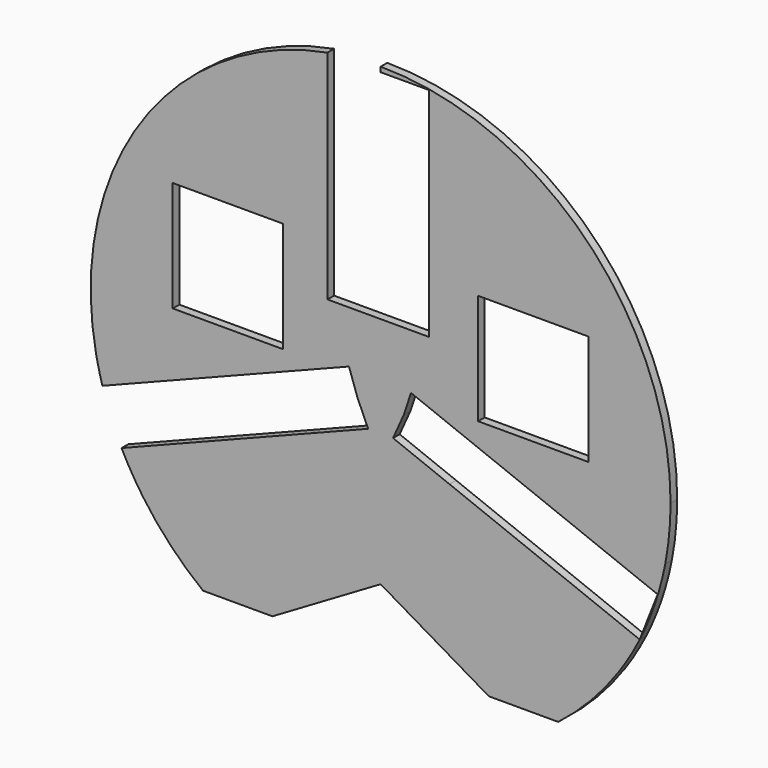
from build123d import *

# Parameters (mm, degrees)
F0_W     = 40
F0_H     = 40
F1_DEPTH = 3


with BuildPart() as f1:
    # F0 (on Front) → F1 (new body)
    with BuildSketch(Plane.XZ):
        with BuildLine():
            ThreePointArc((103.0776406404, -20), (104.5183052562, -10.0460871177), (105, 0))
            ThreePointArc((105, 0), (74.2462120246, 74.2462120246), (0, 105))
            Line((0, 105), (0, 103.22223589))
            Line((0, 103.22223589), (17.5601970418, 103.22223589))
            Line((17.5601970418, 103.22223589), (17.5601970418, 24.52223589))
            Line((17.5601970418, 24.52223589), (0, 24.52223589))
            Line((0, 24.52223589), (0, 0))
            Line((0, 0), (0, -20))
            Line((0, -20), (24.9232704506, -20))
            Line((24.9232704506, -20), (4.4912775015, -11.950507217))
            Line((4.4912775015, -11.950507217), (8.3736020394, -3.2989072261))
            Line((8.3736020394, -3.2989072261), (10.9988783344, 4.5677080197))
            Line((10.9988783344, 4.5677080197), (73.3589860543, -20))
            Line((73.3589860543, -20), (103.0776406404, -20))
        make_face()
        with Locations((55.2959036827, 23.426694544)):
            Rectangle(F0_W, F0_H, mode=Mode.SUBTRACT)
        with BuildLine():
            Line((-19.2398029582, 24.52223589), (-19.2398029582, 103.22223589))
            ThreePointArc((-19.2398029582, 103.22223589), (-86.8119755941, 59.06505645), (-103.0776406404, -20))
            Line((-103.0776406404, -20), (-76.6085577032, -20))
            Line((-76.6085577032, -20), (-11.4596459847, 5.666399553))
            Line((-11.4596459847, 5.666399553), (-8.3736020394, -3.2989072261))
            Line((-8.3736020394, -3.2989072261), (-4.5281557545, -11.9277723195))
            Line((-4.5281557545, -11.9277723195), (-25.0178565965, -20))
            Line((-25.0178565965, -20), (0, -20))
            Line((0, -20), (0, 0))
            Line((0, 0), (0, 24.52223589))
            Line((0, 24.52223589), (-19.2398029582, 24.52223589))
        make_face()
        with Locations((-55.2958999333, 23.426694544)):
            Rectangle(F0_W, F0_H, mode=Mode.SUBTRACT)
        with BuildLine():
            Line((-76.6085577032, -20), (-103.0776406404, -20))
            ThreePointArc((-103.0776406404, -20), (-102.0327301186, -24.7855196543), (-100.7657719775, -29.5171000911))
            Line((-100.7657719775, -29.5171000911), (-76.6085577032, -20))
        make_face()
        with BuildLine():
            ThreePointArc((86.1684396981, -60), (96.7135964116, -40.8837408896), (103.0776406404, -20))
            Line((103.0776406404, -20), (73.3589860543, -20))
            Line((73.3589860543, -20), (100.3173000877, -30.6206357252))
            Line((100.3173000877, -30.6206357252), (97.2817984504, -38.3256364902))
            Line((97.2817984504, -38.3256364902), (93.8096992547, -47.138850962))
            Line((93.8096992547, -47.138850962), (24.9232704506, -20))
            Line((24.9232704506, -20), (0, -20))
            Line((0, -20), (86.1684396981, -60))
        make_face()
        with BuildLine():
            Line((-86.1684396981, -60), (0, -20))
            Line((0, -20), (-25.0178565965, -20))
            Line((-25.0178565965, -20), (-93.837198319, -47.1124209911))
            ThreePointArc((-93.837198319, -47.1124209911), (-90.2331970655, -53.6932970429), (-86.1684396981, -60))
        make_face()
        with BuildLine():
            ThreePointArc((64.3189255464, -82.9944324432), (76.1170004362, -72.3270505731), (86.1684396981, -60))
            Line((86.1684396981, -60), (0, -20))
            Line((0, -20), (-86.1684396981, -60))
            ThreePointArc((-86.1684396981, -60), (-76.1170004362, -72.3270505731), (-64.3189255464, -82.9944324432))
            Line((-64.3189255464, -82.9944324432), (-39.1973913604, -82.9944324432))
            Line((-39.1973913604, -82.9944324432), (0, -60))
            Line((0, -60), (39.1975319574, -82.9944324432))
            Line((39.1975319574, -82.9944324432), (64.3189255464, -82.9944324432))
        make_face()
    extrude(amount=F1_DEPTH)


solid = f1.part
